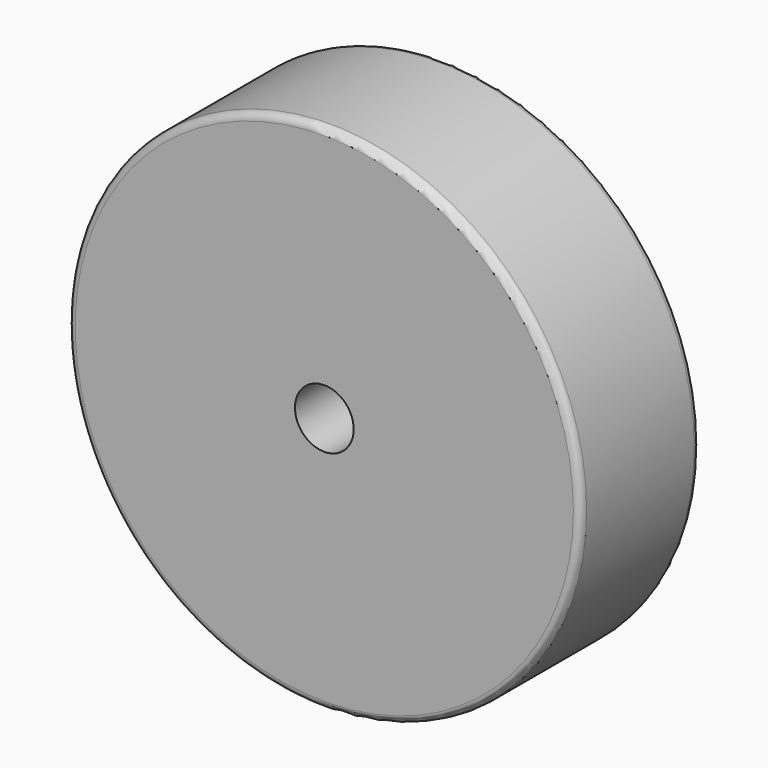
from build123d import *

# Parameters (mm, degrees)
F0_R     = 17.4625
F1_DEPTH = 10.16
F2_R     = 2
F3_DEPTH = 25.4
F4_R     = 0.5


with BuildPart() as f1:
    # F0 (on Front) → F1 (new body)
    with BuildSketch(Plane.XZ):
        Circle(F0_R)
    extrude(amount=F1_DEPTH)

    # F2 (on face) → F3 (cut)
    with BuildSketch(Plane.XZ.offset(10.16)):
        Circle(F2_R)
    extrude(amount=-F3_DEPTH, mode=Mode.SUBTRACT)

    # F4
    f4_edges = [f1.edges().sort_by_distance(p)[0] for p in [
        (-17.4625, -10.16, 0),
        (-17.4625, 0, 0),
    ]]
    fillet(f4_edges, radius=F4_R)


solid = f1.part
